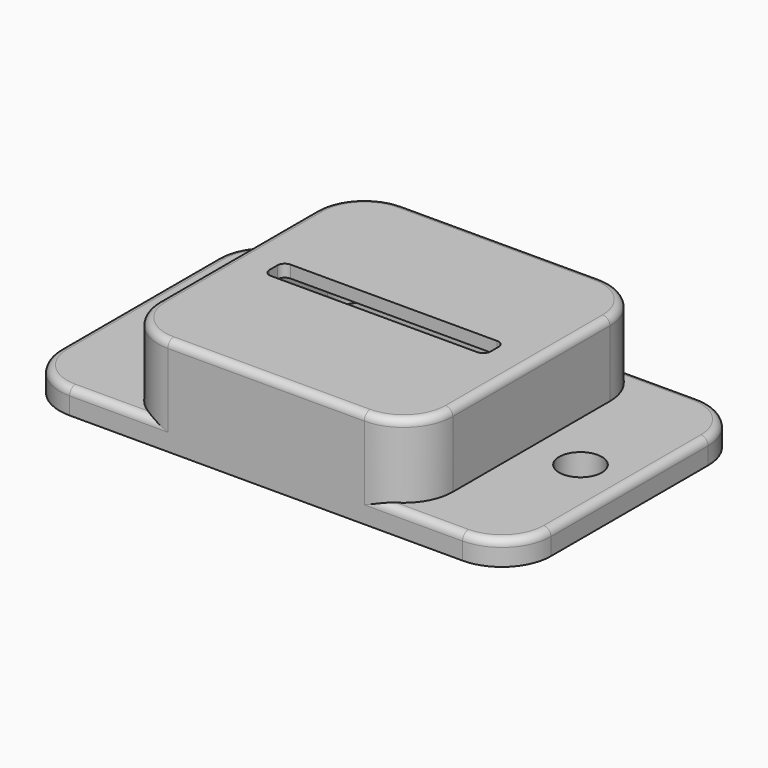
from build123d import *

# Parameters (mm, degrees)
F0_R     = 4.345
F1_DEPTH = 5
F3_DEPTH = 15
F4_T     = -2.5
F5_W     = 45
F5_H     = 5
F6_DEPTH = 20.001
F7_R     = 1.5


with BuildPart() as f1:
    # F0 (on Top) → F1 (new body)
    with BuildSketch(Plane.XY):
        with BuildLine():
            Line((40, 30), (-40, 30))
            ThreePointArc((-40, 30), (-47.0710678119, 27.0710678119), (-50, 20))
            Line((-50, 20), (-50, -20))
            ThreePointArc((-50, -20), (-47.0710678119, -27.0710678119), (-40, -30))
            Line((-40, -30), (40, -30))
            ThreePointArc((40, -30), (47.0710678119, -27.0710678119), (50, -20))
            Line((50, -20), (50, 20))
            ThreePointArc((50, 20), (47.0710678119, 27.0710678119), (40, 30))
        make_face()
        with Locations((-40, 0)):
            Circle(F0_R, mode=Mode.SUBTRACT)
        with Locations((40, 0)):
            Circle(F0_R, mode=Mode.SUBTRACT)
    extrude(amount=F1_DEPTH)

    # F2 (on face) → F3 (join)
    with BuildSketch(Plane.XY.offset(5)):
        with BuildLine():
            Line((20, 30), (-20, 30))
            ThreePointArc((-20, 30), (-27.0710678119, 27.0710678119), (-30, 20))
            Line((-30, 20), (-30, -20))
            ThreePointArc((-30, -20), (-27.0710678119, -27.0710678119), (-20, -30))
            Line((-20, -30), (20, -30))
            ThreePointArc((20, -30), (27.0710678119, -27.0710678119), (30, -20))
            Line((30, -20), (30, 20))
            ThreePointArc((30, 20), (27.0710678119, 27.0710678119), (20, 30))
        make_face()
    extrude(amount=F3_DEPTH)

    # F4
    f4_openings = [f1.faces().sort_by_distance(p)[0] for p in [
        (0, 0, 0),
    ]]
    offset(amount=F4_T, openings=f4_openings, kind=Kind.INTERSECTION)

    # F5 (on face) → F6 (cut, through all)
    with BuildSketch(Plane.XY.offset(20)):
        Rectangle(F5_W, F5_H)
    extrude(amount=-F6_DEPTH, mode=Mode.SUBTRACT)

    # F7
    f7_edges = [f1.edges().sort_by_distance(p)[0] for p in [
        (-22.5, 2.5, 18.75),
        (-22.5, -2.5, 18.75),
        (22.5, 2.5, 18.75),
        (22.5, -2.5, 18.75),
        (30, 0, 20),
        (27.071068, -27.071068, 20),
        (0, -30, 20),
        (47.071068, 27.071068, 5),
        (-30, -30, 5),
    ]]
    fillet(f7_edges, radius=F7_R)


solid = f1.part
